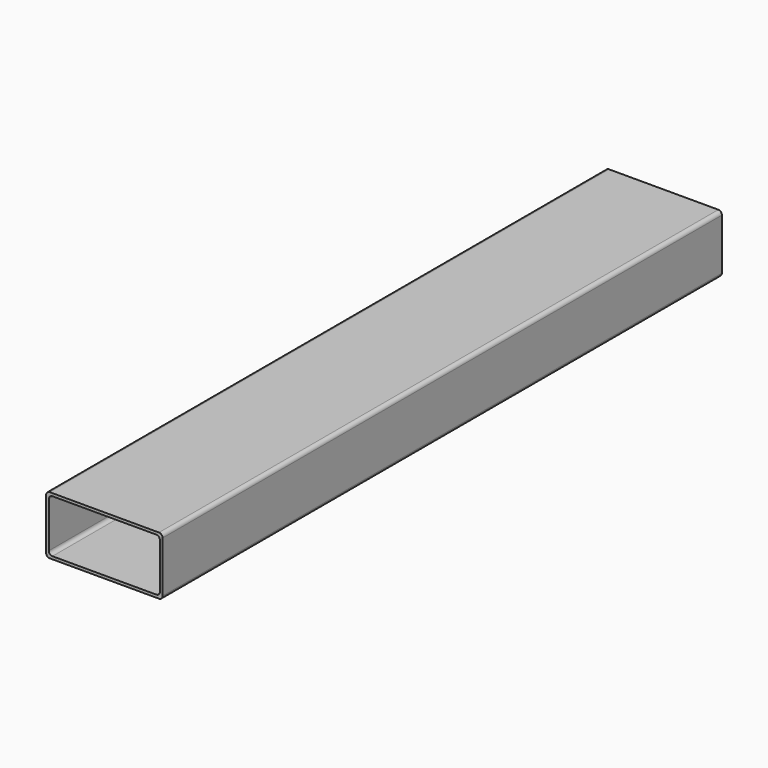
from build123d import *

# Parameters (mm, degrees)
F1_DEPTH = 1219.2


with BuildPart() as f1:
    # F0 (on Front) → F1 (new body)
    with BuildSketch(Plane.XZ):
        with BuildLine():
            ThreePointArc((101.6, 44.45), (99.740128, 48.940128), (95.25, 50.8))
            Line((95.25, 50.8), (-95.25, 50.8))
            ThreePointArc((-95.25, 50.8), (-99.740128, 48.940128), (-101.6, 44.45))
            Line((-101.6, 44.45), (-101.6, -44.45))
            ThreePointArc((-101.6, -44.45), (-99.740128, -48.940128), (-95.25, -50.8))
            Line((-95.25, -50.8), (95.25, -50.8))
            ThreePointArc((95.25, -50.8), (99.740128, -48.940128), (101.6, -44.45))
            Line((101.6, -44.45), (101.6, 44.45))
        make_face()
        with BuildLine():
            Line((-90.4875, 46.0375), (90.4875, 46.0375))
            ThreePointArc((90.4875, 46.0375), (94.977628, 44.177628), (96.8375, 39.6875))
            Line((96.8375, 39.6875), (96.8375, -39.6875))
            ThreePointArc((96.8375, -39.6875), (94.977628, -44.177628), (90.4875, -46.0375))
            Line((90.4875, -46.0375), (-90.4875, -46.0375))
            ThreePointArc((-90.4875, -46.0375), (-94.977628, -44.177628), (-96.8375, -39.6875))
            Line((-96.8375, -39.6875), (-96.8375, 39.6875))
            ThreePointArc((-96.8375, 39.6875), (-94.977628, 44.177628), (-90.4875, 46.0375))
        make_face(mode=Mode.SUBTRACT)
    extrude(amount=-F1_DEPTH)


solid = f1.part
